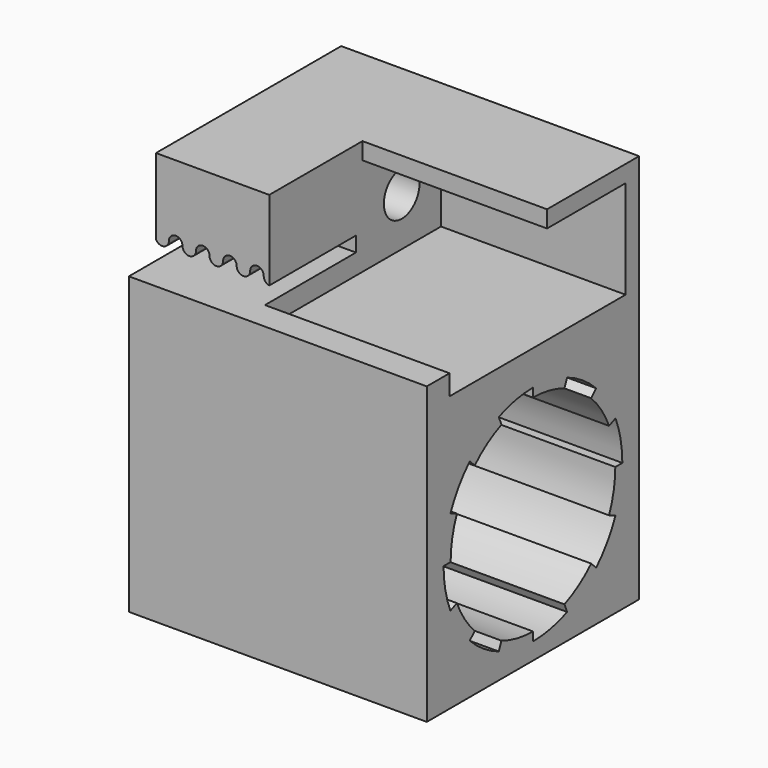
from build123d import *

# Parameters (mm, degrees)
SKETCH_W           = 19.6
SKETCH_H           = 20.312846
SKETCH_R           = 7.6
PAD_DEPTH          = 22
SKETCH002_W        = 17.1
SKETCH002_H        = 8.369387
PAD001_DEPTH       = 8.5
POCKET_DEPTH       = 8
PAD002_DEPTH       = 13.630613
SKETCH005_R        = 1.65
POCKET001_DEPTH    = 8.370387
POCKET002_DEPTH    = 104.4228440614
POLARPATTERN_COUNT = 8
SKETCH010_W        = 2.1
SKETCH010_H        = 22
PAD004_DEPTH       = 1.5
SKETCH011_W        = 1.5
SKETCH011_H        = 8.369387
PAD005_DEPTH       = 0.4
SKETCH012_R        = 1.75
POCKET005_DEPTH    = 4


with BuildPart() as part:
    # Sketch → Pad (new body)
    with BuildSketch(Plane.YZ):
        with Locations((0, 0.656423)):
            Rectangle(SKETCH_W, SKETCH_H)
        Circle(SKETCH_R, mode=Mode.SUBTRACT)
    extrude(amount=-PAD_DEPTH)

    # Sketch002 → Pad001 (join)
    with BuildSketch(Plane(origin=(0, 0, 10.812846), x_dir=(0, -1, 0), z_dir=(0, 0, 1))):
        with Locations((-1.25, -17.8153065)):
            Rectangle(SKETCH002_W, SKETCH002_H)
    extrude(amount=PAD001_DEPTH)

    # Sketch003 → Pocket (cut)
    with BuildSketch(Plane(origin=(0, -7.3, 0), x_dir=(0, 0, -1), z_dir=(0, -1, 0))):
        with BuildLine():
            Line((-12.312846, -22), (-12.312846, -13.630613))
            Line((-12.312846, -13.630613), (-13.4208073614, -13.630613))
            ThreePointArc((-13.912846, -14.0417424305), (-13.5922491229, -13.9254319435), (-13.4208073614, -13.630613))
            ThreePointArc((-13.912846, -14.0417424305), (-14.412846, -14.5417424305), (-13.912846, -15.0417424305))
            ThreePointArc((-13.912846, -16.0417424305), (-13.412846, -15.5417424305), (-13.912846, -15.0417424305))
            ThreePointArc((-13.912846, -16.0417424305), (-14.412846, -16.5417424305), (-13.912846, -17.0417424305))
            ThreePointArc((-13.912846, -18.0417424305), (-13.412846, -17.5417424305), (-13.912846, -17.0417424305))
            ThreePointArc((-13.912846, -18.0417424305), (-14.412846, -18.5417424305), (-13.912846, -19.0417424305))
            ThreePointArc((-13.912846, -20.0417424305), (-13.412846, -19.5417424305), (-13.912846, -19.0417424305))
            ThreePointArc((-13.912846, -20.0417424305), (-14.412846, -20.5417424305), (-13.912846, -21.0417424305))
            ThreePointArc((-13.712846, -22), (-13.4233928435, -21.4395876087), (-13.912846, -21.0417424305))
            Line((-13.712846, -22), (-12.312846, -22))
        make_face()
    extrude(amount=-POCKET_DEPTH, mode=Mode.SUBTRACT)

    # Sketch004 (on Face7 of Pocket) → Pad002 (join)
    with BuildSketch(Plane.YZ.offset(-13.630613)):
        Polygon((9.8, 19.312846), (1.3, 19.312846), (1.3, 18.062846), (8.55, 18.062846), (8.55, 10.812846), (9.8, 10.812846), align=None)
    extrude(amount=PAD002_DEPTH)

    # Sketch005 (on Face7 of Pad002) → Pocket001 (cut, through all)
    with BuildSketch(Plane.YZ.offset(-13.630613)):
        with Locations((4.925, 14.437846)):
            Circle(SKETCH005_R)
    extrude(amount=-POCKET001_DEPTH, mode=Mode.SUBTRACT)

    # Sketch006 (on Face5 of Pocket001) → Pocket002 (cut, through all)
    with BuildSketch(Plane(origin=(-22, 0, 0), x_dir=(0, 1, 0), z_dir=(-1, 0, 0))):
        with BuildLine():
            ThreePointArc((-7.622006143, 3.1571383175), (-8.0914785633, 1.6094951569), (-8.25, 0))
            Line((-7, 0), (-8.25, 0))
            ThreePointArc((-6.4671567274, 2.678784027), (-6.8654969628, 1.3656322543), (-7, 0))
            Line((-6.4671567274, 2.678784027), (-7.622006143, 3.1571383175))
        make_face()
    pocket002 = extrude(amount=-POCKET002_DEPTH, mode=Mode.SUBTRACT)

    # PolarPattern: Pocket002 ×8 about axis
    polarpattern_axis = Axis((0, 0, 0), (1, 0, 0))
    for i in range(1, POLARPATTERN_COUNT):
        add(pocket002.rotate(polarpattern_axis, i * 360 / POLARPATTERN_COUNT), mode=Mode.SUBTRACT)

    # Sketch010 (on Face2 of PolarPattern) → Pad004 (join)
    with BuildSketch(Plane(origin=(0, 0, 10.812846), x_dir=(0, -1, 0), z_dir=(0, 0, 1))):
        with Locations((8.75, -11)):
            Rectangle(SKETCH010_W, SKETCH010_H)
    extrude(amount=PAD004_DEPTH)

    # Sketch011 (on Face52 of Pad004) → Pad005 (join)
    with BuildSketch(Plane(origin=(0, -7.3, 0), x_dir=(0, 0, -1), z_dir=(0, -1, 0))):
        with Locations((-11.562846, -17.8153065)):
            Rectangle(SKETCH011_W, SKETCH011_H)
    extrude(amount=PAD005_DEPTH)

    # Sketch012 (on Face2 of Pad005) → Pocket005 (cut)
    with BuildSketch(Plane.ZX.offset(9.8)):
        with Locations((8.062846, -3.5)):
            Circle(SKETCH012_R)
        with Locations((8.062846, -18.5)):
            Circle(SKETCH012_R)
    extrude(amount=-POCKET005_DEPTH, mode=Mode.SUBTRACT)


solid = part.part
